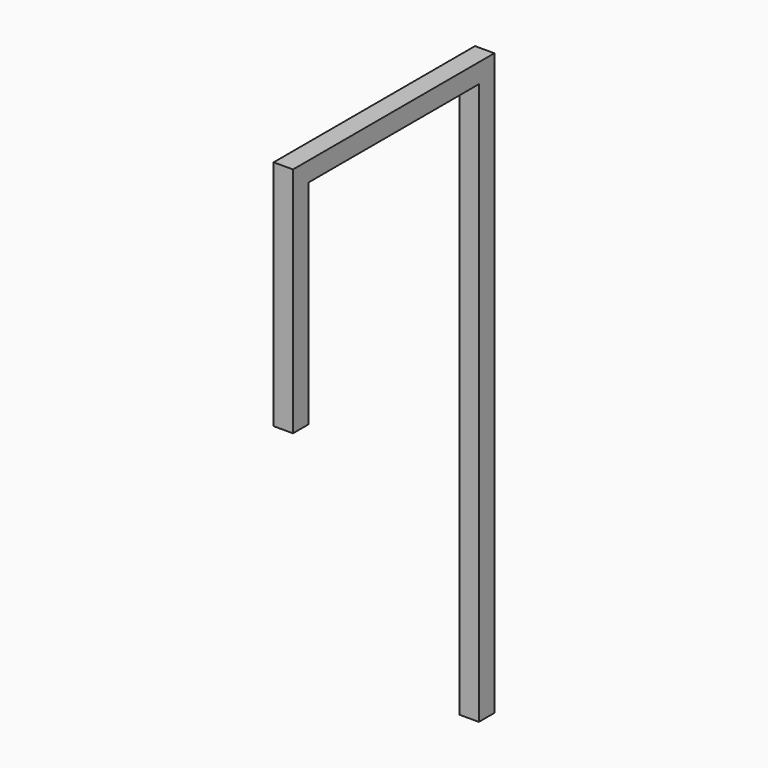
from build123d import *

# Parameters (mm, degrees)
F0_W     = 25.4
F0_H     = 762
F1_DEPTH = 25.4
F2_W     = 25.4
F2_H     = 25.4
F3_DEPTH = 304.8
F4_W     = 25.4
F4_H     = 25.4
F5_DEPTH = 279.4


with BuildPart() as f1:
    # F0 (on Right) → F1 (new body)
    with BuildSketch(Plane.YZ):
        with Locations((7.826157, 79.498407)):
            Rectangle(F0_W, F0_H)
    extrude(amount=F1_DEPTH)

    # F2 (on face) → F3 (join)
    with BuildSketch(Plane.XZ.offset(4.873843)):
        with Locations((12.7, 447.798407)):
            Rectangle(F2_W, F2_H)
    extrude(amount=F3_DEPTH)

    # F4 (on face) → F5 (join)
    with BuildSketch(Plane(origin=(0, 0, 435.098407), x_dir=(1, 0, 0), z_dir=(0, 0, -1))):
        with Locations((12.7, 296.973843)):
            Rectangle(F4_W, F4_H)
    extrude(amount=F5_DEPTH)


solid = f1.part
